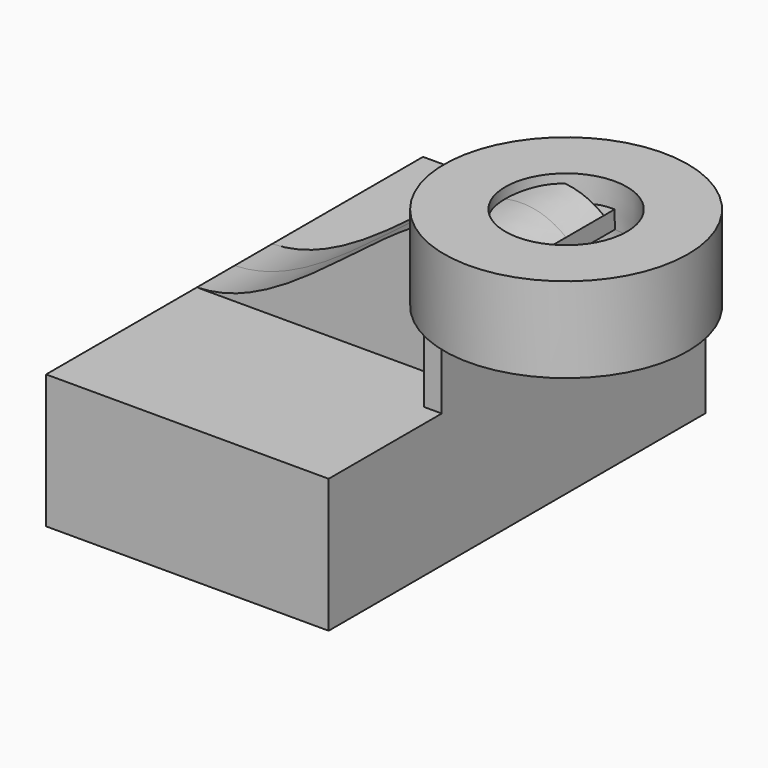
from build123d import *

# Parameters (mm, degrees)
F1_DEPTH = 63.5
F2_DEPTH = 25.4
F3_DEPTH = 12.7


with BuildPart() as f1:
    # F0 (on Front) → F1 (new body, symmetric)
    with BuildSketch(Plane.XZ):
        Polygon((33.25627, 18.030804), (-38.082272, 18.030804), (-38.082272, -18.030804), (38.082272, -18.030804), (38.082272, 18.030804), align=None)
    extrude(amount=F1_DEPTH, both=True)

    # F0 (on Front) → F2 (join, symmetric)
    with BuildSketch(Plane.XZ):
        with BuildLine():
            Line((33.25627, 38.202789), (33.25627, 18.030804))
            Line((33.25627, 18.030804), (38.082272, 18.030804))
            Line((38.082272, 18.030804), (38.082272, 38.202789))
            ThreePointArc((38.082272, 38.202789), (40.858393, 45.442439), (47.763245, 48.969819))
            Line((47.763245, 48.969819), (51.281622, 48.969819))
            Line((51.281622, 48.969819), (51.281622, 53.79582))
            Line((51.281622, 53.79582), (47.53053, 53.79582))
            ThreePointArc((47.53053, 53.79582), (37.363711, 48.772759), (33.25627, 38.202789))
        make_face()
    extrude(amount=F2_DEPTH, both=True)

    # F0 (on Front) → F3 (join, symmetric)
    with BuildSketch(Plane.XZ):
        with BuildLine():
            add(Edge.make_bspline(
                [(-38.082272, 18.030804), (-5.656304, 18.834018), (25.872232, 73.464645), (51.281622, 53.79582)],
                knots=[0, 0, 0, 0, 96.255087, 96.255087, 96.255087, 96.255087], degree=3))
            Line((-38.082272, 18.030804), (33.25627, 18.030804))
            Line((33.25627, 18.030804), (33.25627, 38.202789))
            ThreePointArc((33.25627, 38.202789), (37.363711, 48.772759), (47.53053, 53.79582))
            Line((47.53053, 53.79582), (51.281622, 53.79582))
        make_face()
    extrude(amount=F3_DEPTH, both=True)

    # F0 (on Front) → F4 (revolve)
    with BuildSketch(Plane.XZ):
        Polygon((84.119728, 60.463159), (67.652359, 60.463159), (67.676517, 48.969819), (67.700675, 37.476478), (84.119728, 37.476478), align=None)
    revolve(axis=Axis((51.281622, 0, 48.969819), (0, 0, 1)))


solid = f1.part
